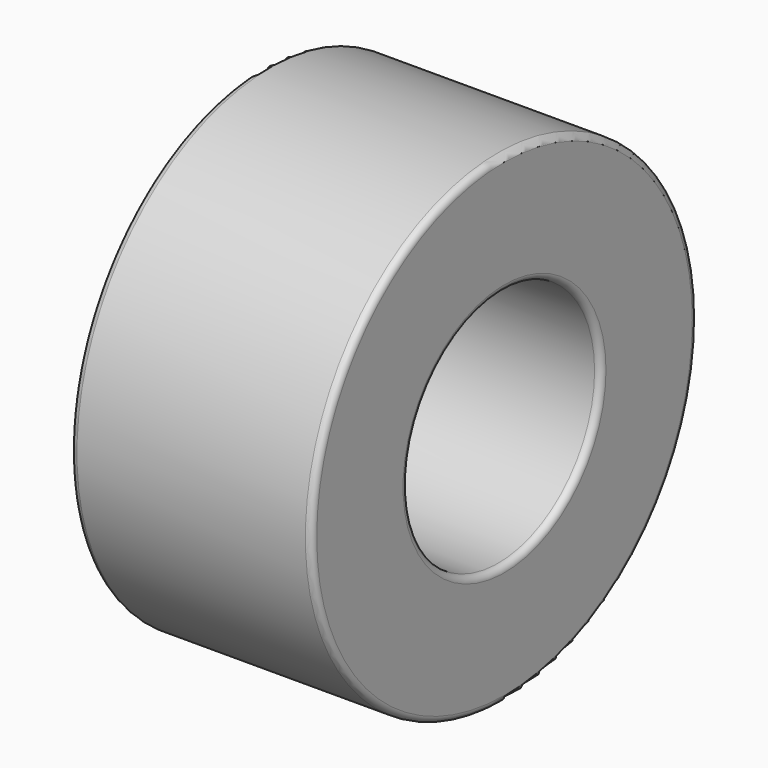
from build123d import *

# Parameters (mm, degrees)
F0_R     = 19.05
F0_R_2   = 9.525
F1_DEPTH = 9.525
F2_R     = 0.5


with BuildPart() as f1:
    # F0 (on Right) → F1 (new body, symmetric)
    with BuildSketch(Plane.YZ):
        Circle(F0_R)
        Circle(F0_R_2, mode=Mode.SUBTRACT)
    extrude(amount=F1_DEPTH, both=True)

    # F2
    f2_edges = [f1.edges().sort_by_distance(p)[0] for p in [
        (9.525, -19.05, 0),
        (9.525, -9.525, 0),
        (-9.525, -19.05, 0),
        (-9.525, -9.525, 0),
    ]]
    fillet(f2_edges, radius=F2_R)


solid = f1.part
